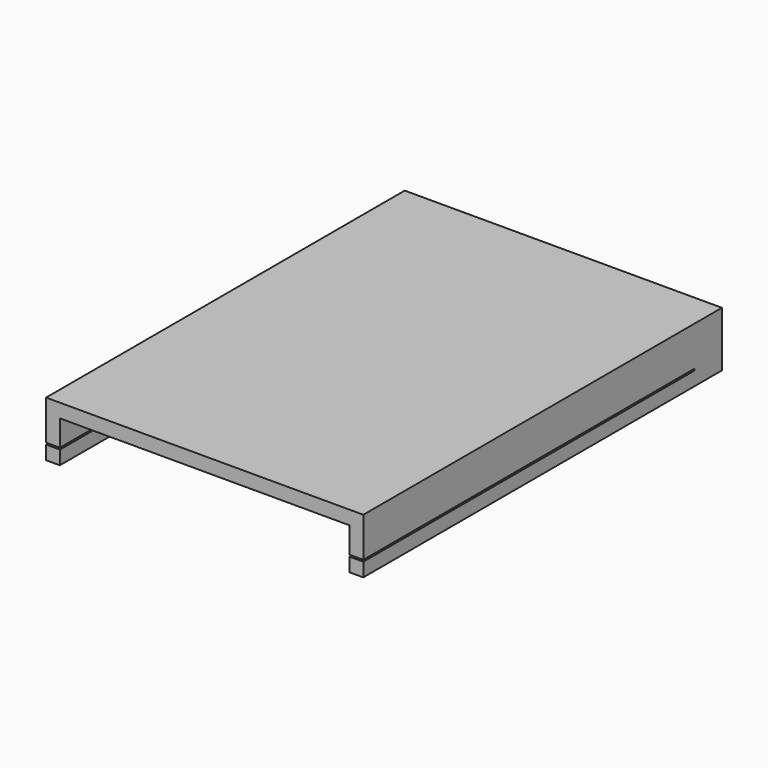
from build123d import *

# Parameters (mm, degrees)
F0_W     = 460
F0_H     = 650
F1_DEPTH = 80
F2_W     = 420
F2_H     = 60
F3_DEPTH = 650.001
F4_W     = 600
F4_H     = 2.5
F5_DEPTH = 460.001


with BuildPart() as f1:
    # F0 (on Top) → F1 (new body)
    with BuildSketch(Plane.XY):
        Rectangle(F0_W, F0_H)
    extrude(amount=F1_DEPTH)

    # F2 (on face) → F3 (cut, through all)
    with BuildSketch(Plane.XZ.offset(325)):
        with Locations((0, 30)):
            Rectangle(F2_W, F2_H)
    extrude(amount=-F3_DEPTH, mode=Mode.SUBTRACT)

    # F4 (on face) → F5 (cut, through all)
    with BuildSketch(Plane.YZ.offset(230)):
        with Locations((-25, 21.25)):
            Rectangle(F4_W, F4_H)
    extrude(amount=-F5_DEPTH, mode=Mode.SUBTRACT)


solid = f1.part
